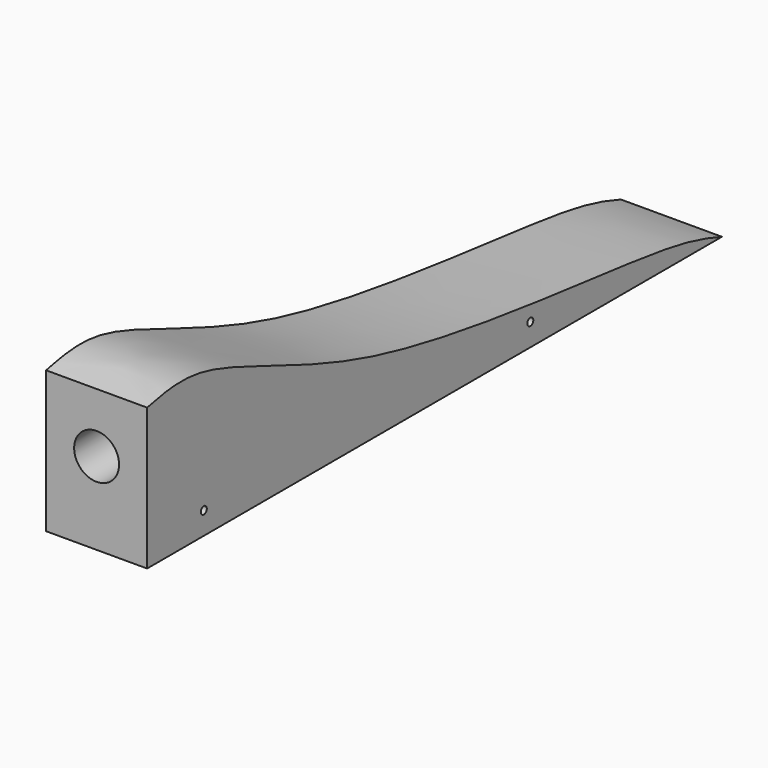
from build123d import *

# Parameters (mm, degrees)
F1_DEPTH = 21.43125
F2_R     = 9.525
F3_DEPTH = 50.8
F4_R     = 1.5875
F5_DEPTH = 42.8635


with BuildPart() as f1:
    # F0 (on Right) → F1 (new body, symmetric)
    with BuildSketch(Plane.YZ):
        Polygon((-152.4, 69.85), (-152.4, 0), (152.4, 0), (152.4, 19.05), align=None)
    extrude(amount=F1_DEPTH, both=True)

    # F2 (on face) → F3 (cut)
    with BuildSketch(Plane.XZ.offset(152.4)):
        with Locations((0, 34.925)):
            Circle(F2_R)
    extrude(amount=-F3_DEPTH, mode=Mode.SUBTRACT)

    # F4 (on face) → F5 (intersect, through all)
    with BuildSketch(Plane.YZ.offset(21.43125)):
        with BuildLine():
            add(Edge.make_bspline(
                [(-152.4, 60.1042546332), (-143.977542079, 61.8846855271), (-119.9008707419, 66.9742745607), (-35.7816538858, 20.1727447549), (121.302857192, 10.7687664806), (145.1861012922, 2.498132741), (152.4, 0)],
                knots=[0, 0, 0, 0, 0.1595847878, 0.4561934915, 0.835744045, 1, 1, 1, 1], degree=3))
            Line((-152.4, 60.1042546332), (-152.4, 0))
            Line((-152.4, 0), (152.4, 0))
        make_face()
        with Locations((-122.337013483, 9.525)):
            Circle(F4_R, mode=Mode.SUBTRACT)
        with Locations((50.8, 9.525)):
            Circle(F4_R, mode=Mode.SUBTRACT)
    extrude(amount=-F5_DEPTH, mode=Mode.INTERSECT)


solid = f1.part
